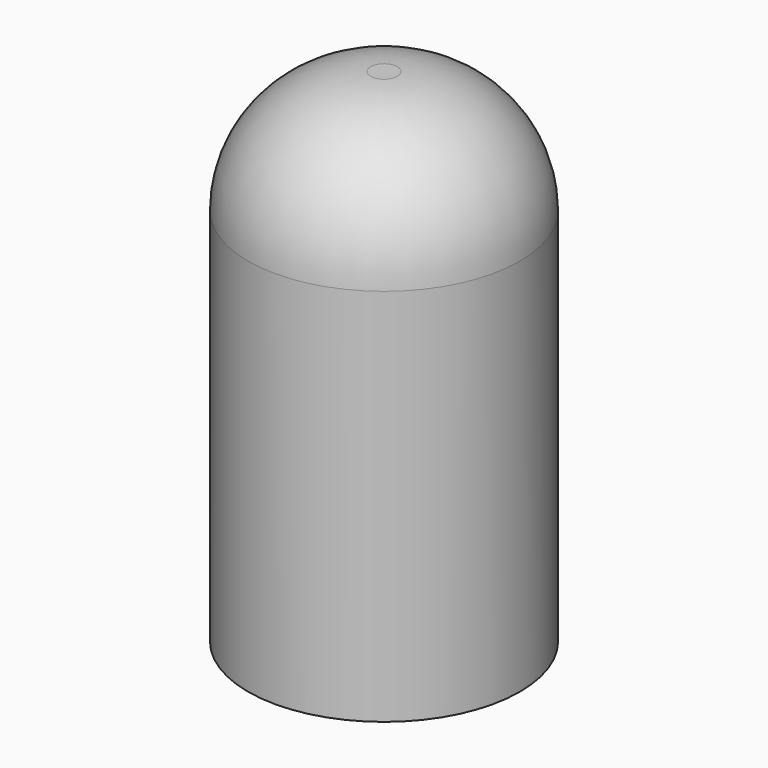
from build123d import *

# Parameters (mm, degrees)
F0_R     = 2.25
F1_DEPTH = 8.3058
F2_R     = 2.032
F3_R     = 1.55
F4_DEPTH = 6.1214


with BuildPart() as f1:
    # F0 (on Top) → F1 (new body)
    with BuildSketch(Plane.XY):
        Circle(F0_R)
    extrude(amount=F1_DEPTH)

    # F2
    f2_edges = [f1.edges().sort_by_distance(p)[0] for p in [
        (-2.25, 0, 8.3058),
    ]]
    fillet(f2_edges, radius=F2_R)

    # F3 (on face) → F4 (cut)
    with BuildSketch(Plane(origin=(0, 0, 0), x_dir=(1, 0, 0), z_dir=(0, 0, -1))):
        Circle(F3_R)
    extrude(amount=-F4_DEPTH, mode=Mode.SUBTRACT)


solid = f1.part
